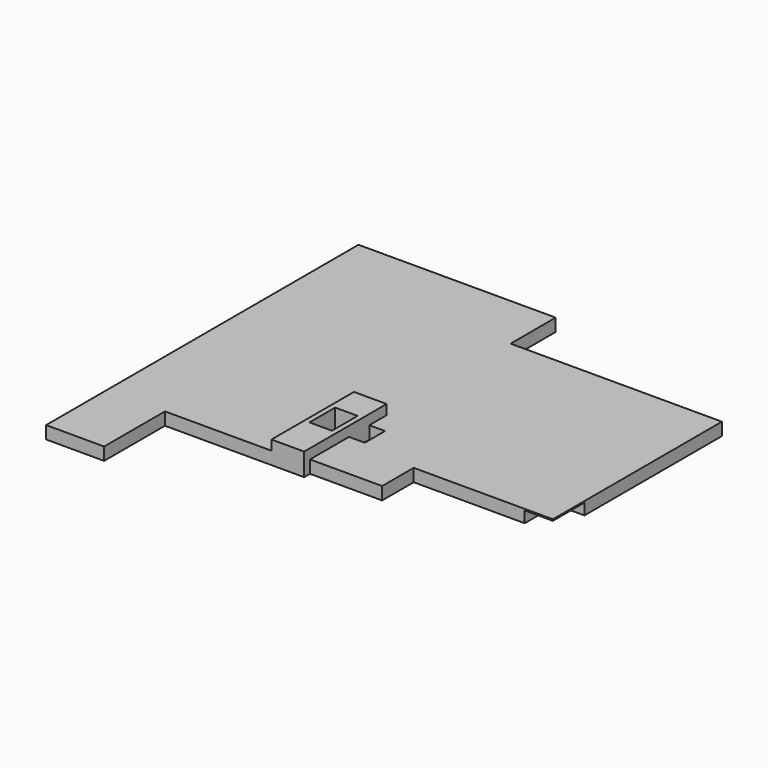
from build123d import *

# Parameters (mm, degrees)
F0_W     = 400
F0_H     = 570
F0_W_2   = 940
F0_H_2   = 780
F1_DEPTH = 200
F0_W_3   = 500
F0_H_3   = 700
F2_DEPTH = 25
F3_DEPTH = 200


with BuildPart() as f1:
    # F0 (on Top) → F1 (new body)
    with BuildSketch(Plane.XY):
        Polygon((-4928.298473, -2685.597801), (-4928.298473, -4035.597801), (-3898.298473, -4035.597801), (-3898.298473, -2685.597801), (-2008.298473, -2685.597801), (-2008.298473, -855.597801), (-1428.298473, -855.597801), (-1428.298473, -1155.597801), (-1428.298473, -1240.597801), (-1148.298473, -1240.597801), (-1148.298473, -1690.597801), (-1428.298473, -1690.597801), (-1428.298473, -1775.597801), (-488.298473, -1775.597801), (-488.298473, -2555.597801), (-148.298473, -2555.597801), (-148.298473, -1855.597801), (1821.701527, -1855.597801), (1821.701527, -1155.597801), (2321.701527, -1155.597801), (2321.701527, -235.597801), (2321.701527, 1014.402199), (2321.701527, 1894.402199), (791.701527, 1894.402199), (-468.298473, 1894.402199), (-1428.298473, 1894.402199), (-1428.298473, 2894.402199), (-4928.298473, 2894.402199), (-4928.298473, 444.402199), align=None)
        Polygon((-2008.298473, -855.597801), (-2008.298473, -2685.597801), (-1428.298473, -2685.597801), (-1428.298473, -2555.597801), (-1428.298473, -1775.597801), (-1428.298473, -1690.597801), (-1428.298473, -1240.597801), (-1428.298473, -1155.597801), (-1428.298473, -855.597801), align=None)
        with Locations((-1718.298473, -1670.597801)):
            Rectangle(F0_W, F0_H, mode=Mode.SUBTRACT)
        with Locations((-958.298473, -2165.597801)):
            Rectangle(F0_W_2, F0_H_2)
    extrude(amount=-F1_DEPTH)

    # F0 (on Top) → F2 (join)
    with BuildSketch(Plane.XY):
        Polygon((-4928.298473, -2685.597801), (-4928.298473, -4035.597801), (-3898.298473, -4035.597801), (-3898.298473, -2685.597801), (-2008.298473, -2685.597801), (-2008.298473, -855.597801), (-1428.298473, -855.597801), (-1428.298473, -1155.597801), (-1428.298473, -1240.597801), (-1148.298473, -1240.597801), (-1148.298473, -1690.597801), (-1428.298473, -1690.597801), (-1428.298473, -1775.597801), (-488.298473, -1775.597801), (-488.298473, -2555.597801), (-148.298473, -2555.597801), (-148.298473, -1855.597801), (1821.701527, -1855.597801), (1821.701527, -1155.597801), (2321.701527, -1155.597801), (2321.701527, -235.597801), (2321.701527, 1014.402199), (2321.701527, 1894.402199), (791.701527, 1894.402199), (-468.298473, 1894.402199), (-1428.298473, 1894.402199), (-1428.298473, 2894.402199), (-4928.298473, 2894.402199), (-4928.298473, 444.402199), align=None)
        Polygon((-2008.298473, -855.597801), (-2008.298473, -2685.597801), (-1428.298473, -2685.597801), (-1428.298473, -2555.597801), (-1428.298473, -1775.597801), (-1428.298473, -1690.597801), (-1428.298473, -1240.597801), (-1428.298473, -1155.597801), (-1428.298473, -855.597801), align=None)
        with Locations((-1718.298473, -1670.597801)):
            Rectangle(F0_W, F0_H, mode=Mode.SUBTRACT)
        with Locations((-958.298473, -2165.597801)):
            Rectangle(F0_W_2, F0_H_2)
        with Locations((2071.701527, -1505.597801)):
            Rectangle(F0_W_3, F0_H_3)
    extrude(amount=F2_DEPTH)

    # F0 (on Top) → F3 (join)
    with BuildSketch(Plane.XY):
        Polygon((-2008.298473, -855.597801), (-2008.298473, -2685.597801), (-1428.298473, -2685.597801), (-1428.298473, -2555.597801), (-1428.298473, -1775.597801), (-1428.298473, -1690.597801), (-1428.298473, -1240.597801), (-1428.298473, -1155.597801), (-1428.298473, -855.597801), align=None)
        with Locations((-1718.298473, -1670.597801)):
            Rectangle(F0_W, F0_H, mode=Mode.SUBTRACT)
    extrude(amount=F3_DEPTH)


solid = f1.part
